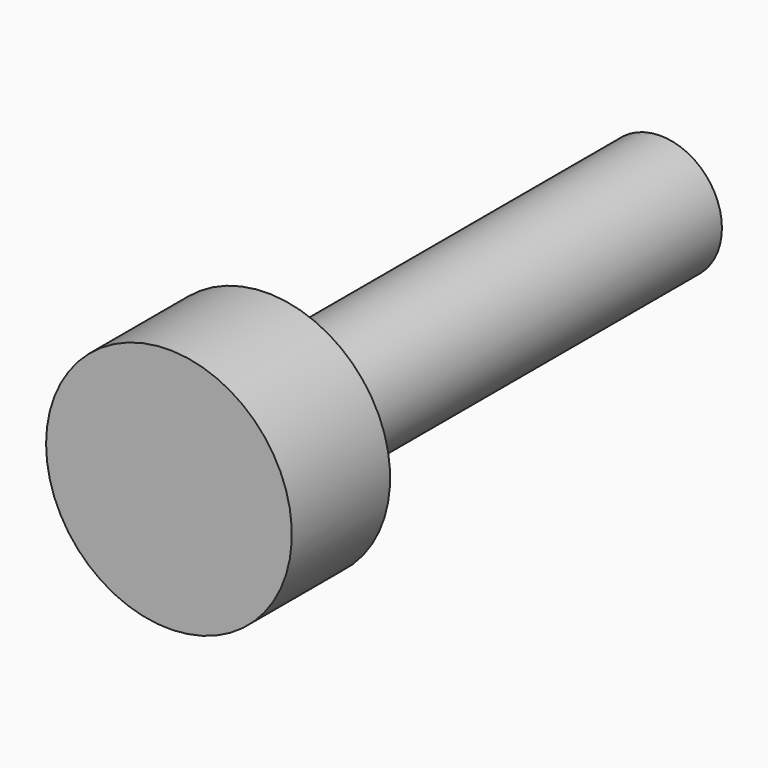
from build123d import *

# Parameters (mm, degrees)
F1_DEPTH = 25.4
F3_DEPTH = 6.35


with BuildPart() as f1:
    # F0 (on Front) → F1 (new body)
    with BuildSketch(Plane.XZ):
        with BuildLine():
            ThreePointArc((-3.175, 0), (0, -3.175), (3.175, 0))
            ThreePointArc((3.175, 0), (0, 3.175), (-3.175, 0))
        make_face()
    extrude(amount=F1_DEPTH)

    # F2 (on face) → F3 (join)
    with BuildSketch(Plane.XZ.offset(25.4)):
        with BuildLine():
            ThreePointArc((6.35, 0), (0, 6.35), (-6.35, 0))
            ThreePointArc((-6.35, 0), (0, -6.35), (6.35, 0))
        make_face()
        with BuildLine():
            ThreePointArc((3.175, 0), (0, -3.175), (-3.175, 0))
            ThreePointArc((-3.175, 0), (0, 3.175), (3.175, 0))
        make_face(mode=Mode.SUBTRACT)
        with BuildLine():
            ThreePointArc((3.175, 0), (0, 3.175), (-3.175, 0))
            ThreePointArc((-3.175, 0), (0, -3.175), (3.175, 0))
        make_face()
    extrude(amount=F3_DEPTH)


solid = f1.part
